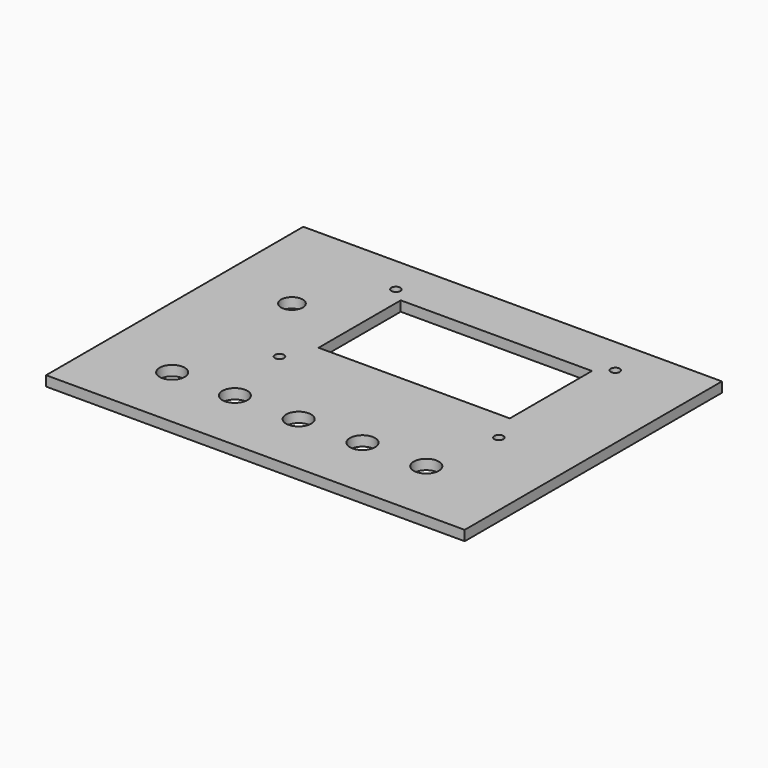
from build123d import *

# Parameters (mm, degrees)
SKETCH015_W      = 125.000379
SKETCH015_H      = 96.004006
EXTRUDE013_DEPTH = 3
SKETCH004_R      = 3.75
HOLE001_DEPTH    = 3
SKETCH005_R      = 3.25
HOLE002_DEPTH    = 3
SKETCH007_R      = 3.75
HOLE003_DEPTH    = 3
SKETCH006_R      = 1.35
HOLE004_DEPTH    = 3
SKETCH008_W      = 57.1
SKETCH008_H      = 30.66
POCKET_DEPTH     = 3


with BuildPart() as part:
    # Sketch015 → Extrude013 (new body)
    with BuildSketch(Plane.XY):
        with Locations((15.049815, 71.702003)):
            Rectangle(SKETCH015_W, SKETCH015_H)
    extrude(amount=EXTRUDE013_DEPTH)

    # Sketch004 (on Face6 of Extrude013) → Hole001 (cut)
    with BuildSketch(Plane.XY.offset(3)):
        with Locations((-25.4, 43.200001)):
            Circle(SKETCH004_R)
    extrude(amount=-HOLE001_DEPTH, mode=Mode.SUBTRACT)

    # Sketch005 (on Face5 of Hole001) → Hole002 (cut)
    with BuildSketch(Plane.XY.offset(3)):
        with Locations((-25.299999, 87.769998)):
            Circle(SKETCH005_R)
    extrude(amount=-HOLE002_DEPTH, mode=Mode.SUBTRACT)

    # Sketch007 (on Face5 of Hole002) → Hole003 (cut)
    with BuildSketch(Plane.XY.offset(3)):
        with Locations((-6.67, 43.199999)):
            Circle(SKETCH007_R)
        with Locations((12.368629, 43.200002)):
            Circle(SKETCH007_R)
        with Locations((31.429999, 43.199999)):
            Circle(SKETCH007_R)
        with Locations((50.469999, 43.199999)):
            Circle(SKETCH007_R)
    extrude(amount=-HOLE003_DEPTH, mode=Mode.SUBTRACT)

    # Sketch006 (on Face5 of Hole003) → Hole004 (cut)
    with BuildSketch(Plane.XY.offset(3)):
        with Locations((-10.85, 65.069999)):
            Circle(SKETCH006_R)
        with Locations((54.649999, 65.069999)):
            Circle(SKETCH006_R)
        with Locations((54.649999, 108.529998)):
            Circle(SKETCH006_R)
        with Locations((-10.85, 108.519998)):
            Circle(SKETCH006_R)
    extrude(amount=-HOLE004_DEPTH, mode=Mode.SUBTRACT)

    # Sketch008 (on Face5 of Hole004) → Pocket (cut)
    with BuildSketch(Plane.XY.offset(3)):
        with Locations((22.05, 89.549998)):
            Rectangle(SKETCH008_W, SKETCH008_H)
    extrude(amount=-POCKET_DEPTH, mode=Mode.SUBTRACT)


with BuildPart() as part_1:
    # Body001 placement: moved
    add(part.part.moved(Location((0, 0, 24.7))))


solid = part_1.part
